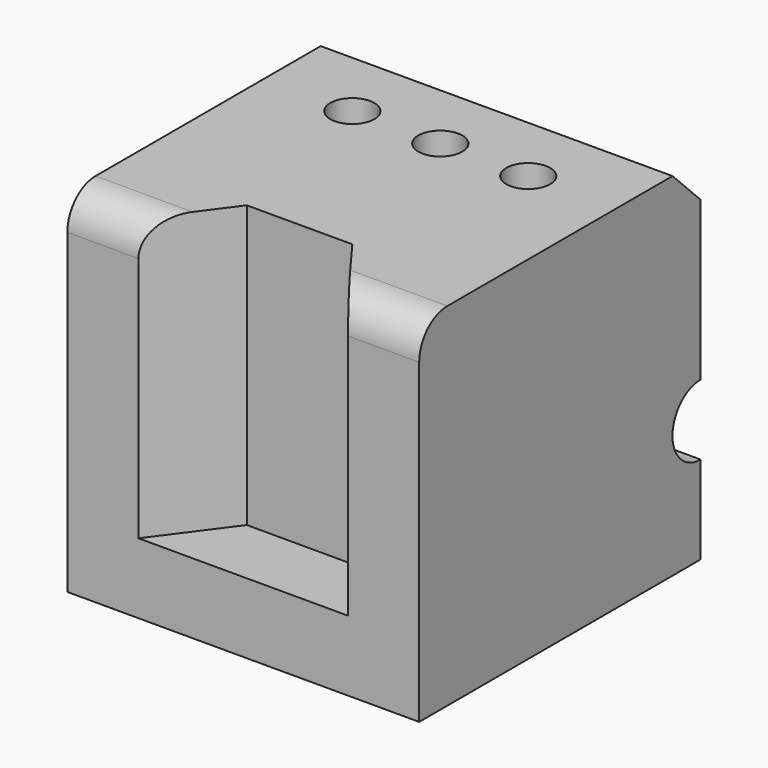
from build123d import *

# Parameters (mm, degrees)
F1_DEPTH = 100
F2_SIZE  = 10
F3_R     = 6.25
F4_DEPTH = 100
F6_DEPTH = 80


with BuildPart() as f1:
    # F0 (on Right) → F1 (new body)
    with BuildSketch(Plane.YZ):
        with BuildLine():
            Line((-100, 0), (0, 0))
            Line((0, 0), (0, 25))
            ThreePointArc((0, 25), (-10, 35), (0, 45))
            Line((0, 45), (0, 100))
            Line((0, 100), (-90, 100))
            ThreePointArc((-90, 100), (-97.071068, 97.071068), (-100, 90))
            Line((-100, 90), (-100, 0))
        make_face()
    extrude(amount=F1_DEPTH)

    # F2
    f2_edges = [f1.edges().sort_by_distance(p)[0] for p in [
        (50, 0, 100),
    ]]
    chamfer(f2_edges, length=F2_SIZE)

    # F3 (on face) → F4 (cut)
    with BuildSketch(Plane.XY.offset(100)):
        with Locations((25, -30)):
            Circle(F3_R)
        with Locations((50, -30)):
            Circle(F3_R)
        with Locations((75, -30)):
            Circle(F3_R)
    extrude(amount=-F4_DEPTH, mode=Mode.SUBTRACT)

    # F5 (on face) → F6 (cut)
    with BuildSketch(Plane.XY.offset(100)):
        Polygon((65.000001, -80), (35.000001, -80), (20.000001, -100.292385), (80.000001, -100.292385), align=None)
    extrude(amount=-F6_DEPTH, mode=Mode.SUBTRACT)


solid = f1.part
